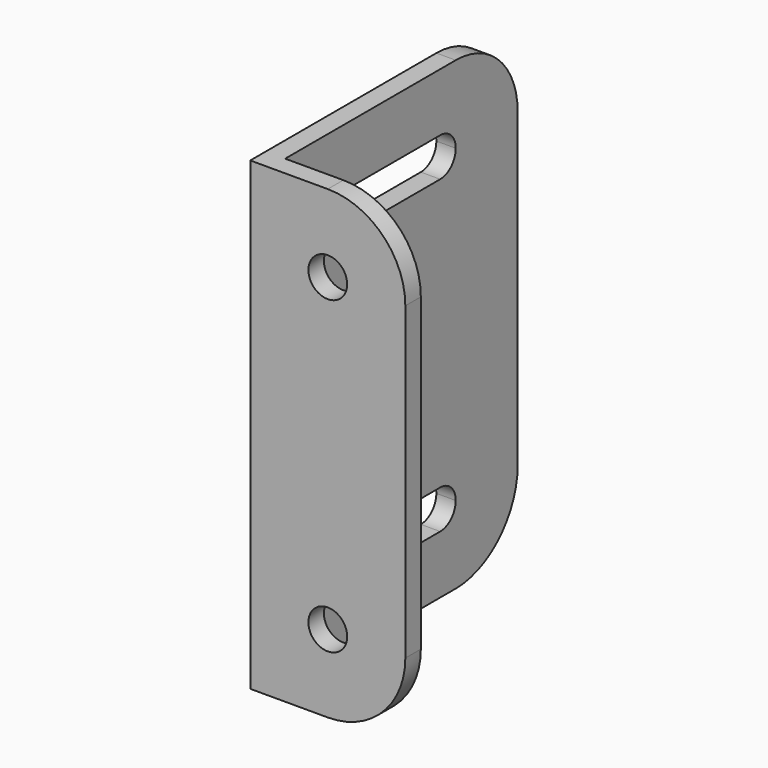
from build123d import *

# Parameters (mm, degrees)
F0_W     = 12.7
F0_H     = 38.1
F1_DEPTH = 1.5875
F2_W     = 1.5875
F2_H     = 38.1
F3_DEPTH = 25.4
F4_R     = 6.35
F5_R     = 1.5875
F6_DEPTH = 1.5875
F8_DEPTH = 1.5875


with BuildPart() as f1:
    # F0 (on Front) → F1 (new body)
    with BuildSketch(Plane.XZ):
        Rectangle(F0_W, F0_H)
    extrude(amount=F1_DEPTH)

    # F2 (on face) → F3 (join)
    with BuildSketch(Plane.XZ.offset(1.5875)):
        with Locations((-5.55625, 0)):
            Rectangle(F2_W, F2_H)
    extrude(amount=-F3_DEPTH)

    # F4
    f4_edges = [f1.edges().sort_by_distance(p)[0] for p in [
        (6.35, -0.79375, 19.05),
        (-5.55625, 23.8125, 19.05),
        (6.35, -0.79375, -19.05),
        (-5.55625, 23.8125, -19.05),
    ]]
    fillet(f4_edges, radius=F4_R)

    # F5 (on face) → F6 (cut, through all)
    with BuildSketch(Plane.XZ.offset(1.5875)):
        with Locations((0, 12.7)):
            Circle(F5_R)
        with Locations((0, -12.7)):
            Circle(F5_R)
    extrude(amount=-F6_DEPTH, mode=Mode.SUBTRACT)

    # F7 (on face) → F8 (cut, through all)
    with BuildSketch(Plane.YZ.offset(-4.7625)):
        with BuildLine():
            ThreePointArc((7.9375, 12.7), (7.4725320151, 13.8225320151), (6.35, 14.2875))
            Line((6.35, 14.2875), (6.35, 11.1125))
            ThreePointArc((6.35, 11.1125), (7.4725320151, 11.5774679849), (7.9375, 12.7))
        make_face()
        with BuildLine():
            Line((15.875, 14.2875), (6.35, 14.2875))
            ThreePointArc((6.35, 14.2875), (7.4725320151, 13.8225320151), (7.9375, 12.7))
            ThreePointArc((7.9375, 12.7), (7.4725320151, 11.5774679849), (6.35, 11.1125))
            Line((6.35, 11.1125), (15.875, 11.1125))
            ThreePointArc((15.875, 11.1125), (14.2875, 12.7), (15.875, 14.2875))
        make_face()
        with BuildLine():
            Line((6.35, 11.1125), (6.35, 14.2875))
            ThreePointArc((6.35, 14.2875), (4.7625, 12.7), (6.35, 11.1125))
        make_face()
        with BuildLine():
            ThreePointArc((17.4625, 12.7), (16.9975320151, 13.8225320151), (15.875, 14.2875))
            Line((15.875, 14.2875), (15.875, 11.1125))
            ThreePointArc((15.875, 11.1125), (16.9975320151, 11.5774679849), (17.4625, 12.7))
        make_face()
        with BuildLine():
            Line((15.875, 11.1125), (15.875, 14.2875))
            ThreePointArc((15.875, 14.2875), (14.2875, 12.7), (15.875, 11.1125))
        make_face()
        with BuildLine():
            ThreePointArc((7.9375, -12.7), (7.4725320151, -11.5774679849), (6.35, -11.1125))
            Line((6.35, -11.1125), (6.35, -14.2875))
            ThreePointArc((6.35, -14.2875), (7.4725320151, -13.8225320151), (7.9375, -12.7))
        make_face()
        with BuildLine():
            Line((15.875, -11.1125), (6.35, -11.1125))
            ThreePointArc((6.35, -11.1125), (7.4725320151, -11.5774679849), (7.9375, -12.7))
            ThreePointArc((7.9375, -12.7), (7.4725320151, -13.8225320151), (6.35, -14.2875))
            Line((6.35, -14.2875), (15.875, -14.2875))
            ThreePointArc((15.875, -14.2875), (14.2875, -12.7), (15.875, -11.1125))
        make_face()
        with BuildLine():
            Line((6.35, -14.2875), (6.35, -11.1125))
            ThreePointArc((6.35, -11.1125), (4.7625, -12.7), (6.35, -14.2875))
        make_face()
        with BuildLine():
            ThreePointArc((17.4625, -12.7), (16.9975320151, -11.5774679849), (15.875, -11.1125))
            Line((15.875, -11.1125), (15.875, -14.2875))
            ThreePointArc((15.875, -14.2875), (16.9975320151, -13.8225320151), (17.4625, -12.7))
        make_face()
        with BuildLine():
            Line((15.875, -14.2875), (15.875, -11.1125))
            ThreePointArc((15.875, -11.1125), (14.2875, -12.7), (15.875, -14.2875))
        make_face()
    extrude(amount=-F8_DEPTH, mode=Mode.SUBTRACT)


solid = f1.part
